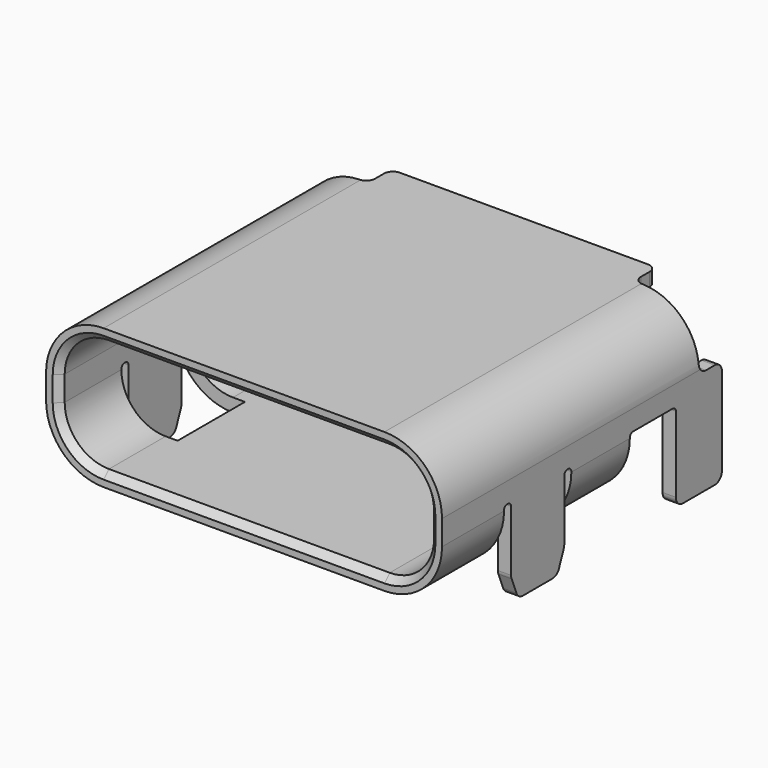
from build123d import *

# Parameters (mm, degrees)
SKETCH_W           = 8.94
SKETCH_H           = 3.16
PAD_DEPTH          = 3.95
SKETCH001_W        = 8.34
SKETCH001_H        = 2.56
POCKET_DEPTH       = 7.901
FILLET_R           = 1
FILLET001_R        = 1.3
CHAMFER_SIZE       = 0.15
SKETCH002_W        = 2
SKETCH002_H        = 1.9
SKETCH002_H_2      = 2.6
POCKET001_DEPTH    = 1.4
SKETCH003_W        = 0.3
SKETCH003_H        = 1.5
SKETCH003_H_2      = 1.3
PAD001_DEPTH       = 2
FILLET002_R        = 0.09
CHAMFER001_1_SIZE2 = 0.2
CHAMFER001_1_SIZE  = 0.5
CHAMFER001_2_SIZE2 = 0.2
CHAMFER001_2_SIZE  = 0.5
CHAMFER001_3_SIZE2 = 0.2
CHAMFER001_3_SIZE  = 0.5
CHAMFER002_SIZE2   = 0.5
CHAMFER002_SIZE    = 0.2
FILLET003_R        = 0.2
SKETCH004_W        = 5.8
SKETCH004_H        = 2.6
POCKET002_DEPTH    = 0.5
SKETCH005_W        = 1.7
SKETCH005_H        = 1.7
POCKET003_DEPTH    = 0.65
FILLET004_R        = 0.2


with BuildPart() as part:
    # Sketch → Pad (new body, symmetric)
    with BuildSketch(Plane.XZ):
        Rectangle(SKETCH_W, SKETCH_H)
    extrude(amount=PAD_DEPTH, both=True)

    # Sketch001 (on Face6 of Pad) → Pocket (cut, through all)
    with BuildSketch(Plane.XZ.offset(3.95)):
        Rectangle(SKETCH001_W, SKETCH001_H)
    extrude(amount=-POCKET_DEPTH, mode=Mode.SUBTRACT)

    # Fillet
    fillet_edges = [part.edges().sort_by_distance(p)[0] for p in [
        (-4.17, 0, -1.28),
        (-4.17, 0, 1.28),
        (4.17, 0, -1.28),
        (4.17, 0, 1.28),
    ]]
    fillet(fillet_edges, radius=FILLET_R)

    # Fillet001
    fillet001_edges = [part.edges().sort_by_distance(p)[0] for p in [
        (-4.47, 0, 1.58),
        (-4.47, 0, -1.58),
        (4.47, 0, 1.58),
        (4.47, 0, -1.58),
    ]]
    fillet(fillet001_edges, radius=FILLET001_R)

    # Chamfer
    chamfer_edges = [part.edges().sort_by_distance(p)[0] for p in [
        (0, -3.95, 1.28),
    ]]
    chamfer(chamfer_edges, length=CHAMFER_SIZE)

    # Sketch002 (on Face17 of Chamfer) → Pocket001 (cut)
    with BuildSketch(Plane(origin=(0, 0, -1.58), x_dir=(1, 0, 0), z_dir=(0, 0, -1))):
        with Locations((3.9, 1.25)):
            Rectangle(SKETCH002_W, SKETCH002_H)
        with Locations((-3.9, 1.25)):
            Rectangle(SKETCH002_W, SKETCH002_H)
        with Locations((-3.9, -2.65)):
            Rectangle(SKETCH002_W, SKETCH002_H_2)
        with Locations((3.9, -2.65)):
            Rectangle(SKETCH002_W, SKETCH002_H_2)
    extrude(amount=-POCKET001_DEPTH, mode=Mode.SUBTRACT)

    # Sketch003 (on Face5 of Pocket001) → Pad001 (join)
    with BuildSketch(Plane(origin=(0, 0, -0.18), x_dir=(1, 0, 0), z_dir=(0, 0, -1))):
        with Locations((-4.32, 1.25)):
            Rectangle(SKETCH003_W, SKETCH003_H)
        with Locations((4.32, 1.25)):
            Rectangle(SKETCH003_W, SKETCH003_H)
        with Locations((4.32, -3.3)):
            Rectangle(SKETCH003_W, SKETCH003_H_2)
        with Locations((-4.32, -3.3)):
            Rectangle(SKETCH003_W, SKETCH003_H_2)
    extrude(amount=PAD001_DEPTH)

    # Fillet002
    fillet002_edges = [part.edges().sort_by_distance(p)[0] for p in [
        (-4.32, -2, -0.18),
        (-4.32, -2.2, -0.18),
        (-4.32, -0.5, -0.18),
        (-4.32, -0.3, -0.18),
        (-4.32, 1.35, -0.18),
        (-4.32, 2.65, -0.18),
        (4.32, 2.65, -0.18),
        (4.32, 1.35, -0.18),
        (4.32, -2.2, -0.18),
        (4.32, -2, -0.18),
        (4.32, -0.5, -0.18),
        (4.32, -0.3, -0.18),
    ]]
    fillet(fillet002_edges, radius=FILLET002_R)

    # Chamfer001 1
    chamfer001_1_edges = [part.edges().sort_by_distance(p)[0] for p in [
        (4.32, -2, -2.18),
    ]]
    chamfer001_1_side = part.faces().sort_by_distance((4.32, -2, -1.225))[0]
    chamfer(chamfer001_1_edges, length=CHAMFER001_1_SIZE, length2=CHAMFER001_1_SIZE2, reference=chamfer001_1_side)

    # Chamfer001 2
    chamfer001_2_edges = [part.edges().sort_by_distance(p)[0] for p in [
        (4.32, -0.5, -2.18),
    ]]
    chamfer001_2_side = part.faces().sort_by_distance((4.32, -0.5, -1.225))[0]
    chamfer(chamfer001_2_edges, length=CHAMFER001_2_SIZE, length2=CHAMFER001_2_SIZE2, reference=chamfer001_2_side)

    # Chamfer001 3
    chamfer001_3_edges = [part.edges().sort_by_distance(p)[0] for p in [
        (-4.32, -2, -2.18),
    ]]
    chamfer001_3_side = part.faces().sort_by_distance((-4.32, -2, -1.225))[0]
    chamfer(chamfer001_3_edges, length=CHAMFER001_3_SIZE, length2=CHAMFER001_3_SIZE2, reference=chamfer001_3_side)

    # Chamfer002
    chamfer002_edges = [part.edges().sort_by_distance(p)[0] for p in [
        (-4.32, -0.5, -2.18),
    ]]
    chamfer002_side = part.faces().sort_by_distance((-4.32, -1.15, -2.18))[0]
    chamfer(chamfer002_edges, length=CHAMFER002_SIZE, length2=CHAMFER002_SIZE2, reference=chamfer002_side)

    # Fillet003
    fillet003_edges = [part.edges().sort_by_distance(p)[0] for p in [
        (-4.32, -0.7, -2.18),
        (-4.32, -1.8, -2.18),
        (-4.32, -0.5, -1.68),
        (-4.32, -2, -1.68),
        (4.32, -2, -1.68),
        (4.32, -0.5, -1.68),
        (4.32, -0.7, -2.18),
        (4.32, -1.8, -2.18),
        (4.32, 2.65, -2.18),
        (4.32, 3.95, -2.18),
        (-4.32, 2.65, -2.18),
        (-4.32, 3.95, -2.18),
    ]]
    fillet(fillet003_edges, radius=FILLET003_R)

    # Sketch004 (on Face36 of Fillet003) → Pocket002 (cut)
    with BuildSketch(Plane(origin=(0, 0, -1.58), x_dir=(1, 0, 0), z_dir=(0, 0, -1))):
        with Locations((0, -2.65)):
            Rectangle(SKETCH004_W, SKETCH004_H)
    extrude(amount=-POCKET002_DEPTH, mode=Mode.SUBTRACT)

    # Sketch005 (on Face24 of Pocket002) → Pocket003 (cut)
    with BuildSketch(Plane(origin=(0, 3.95, 0), x_dir=(1, 0, 0), z_dir=(0, 1, 0))):
        with Locations((-3.85, -1.05)):
            Rectangle(SKETCH005_W, SKETCH005_H)
        with Locations((3.85, -1.05)):
            Rectangle(SKETCH005_W, SKETCH005_H)
    extrude(amount=-POCKET003_DEPTH, mode=Mode.SUBTRACT)

    # Fillet004
    fillet004_edges = [part.edges().sort_by_distance(p)[0] for p in [
        (-3, 3.3, 1.43),
        (-4.32, 3.95, 0.2),
        (-4.32, 3.3, 0.2),
        (-3, 3.95, 1.43),
        (3, 3.95, 1.43),
        (3, 3.3, 1.43),
        (4.32, 3.3, 0.2),
        (4.32, 3.95, 0.2),
    ]]
    fillet(fillet004_edges, radius=FILLET004_R)


solid = part.part
